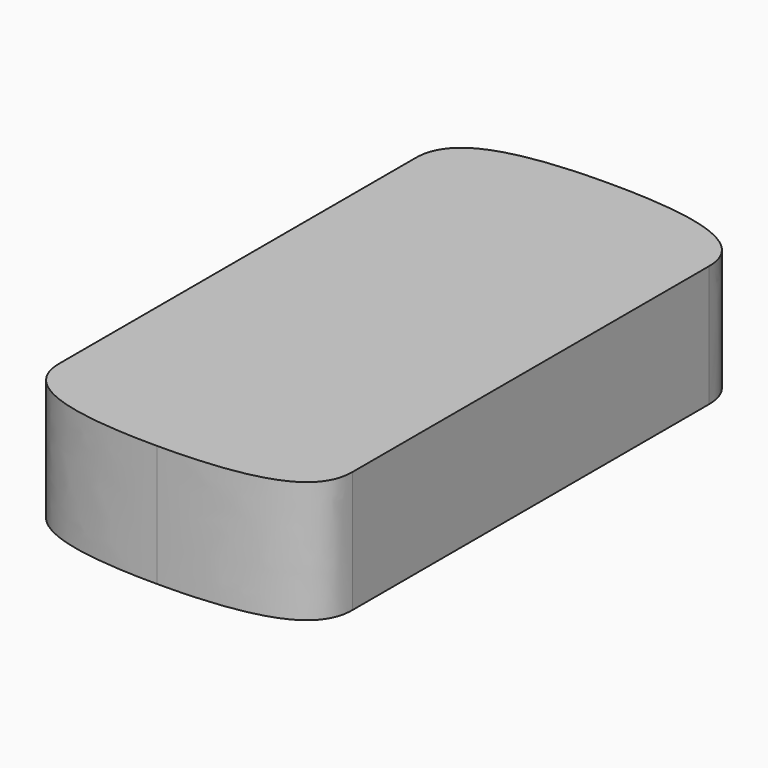
from build123d import *

# Parameters (mm, degrees)
F1_DEPTH = 30


with BuildPart() as f1:
    # F0 (on Top) → F1 (new body)
    with BuildSketch(Plane.XY):
        with BuildLine():
            Line((-36.2, 55), (-36.2, 0))
            Line((-36.2, 0), (0, 0))
            Line((0, 0), (0, 70))
            add(Edge.make_bspline(
                [(-36.2, 55), (-36.2, 65), (-25.5934, 70), (0, 70)],
                knots=[0, 0, 0, 0, 39.184691, 39.184691, 39.184691, 39.184691], degree=3))
        make_face()
    extrude(amount=F1_DEPTH)

    # F2: F1 across plane


with BuildPart() as f1_1:
    add(f1.part)
    add(f1.part.mirror(Plane.YZ))

    # F3: F1 across plane


with BuildPart() as f1_2:
    add(f1_1.part)
    add(f1_1.part.mirror(Plane.XZ))


solid = f1_2.part
